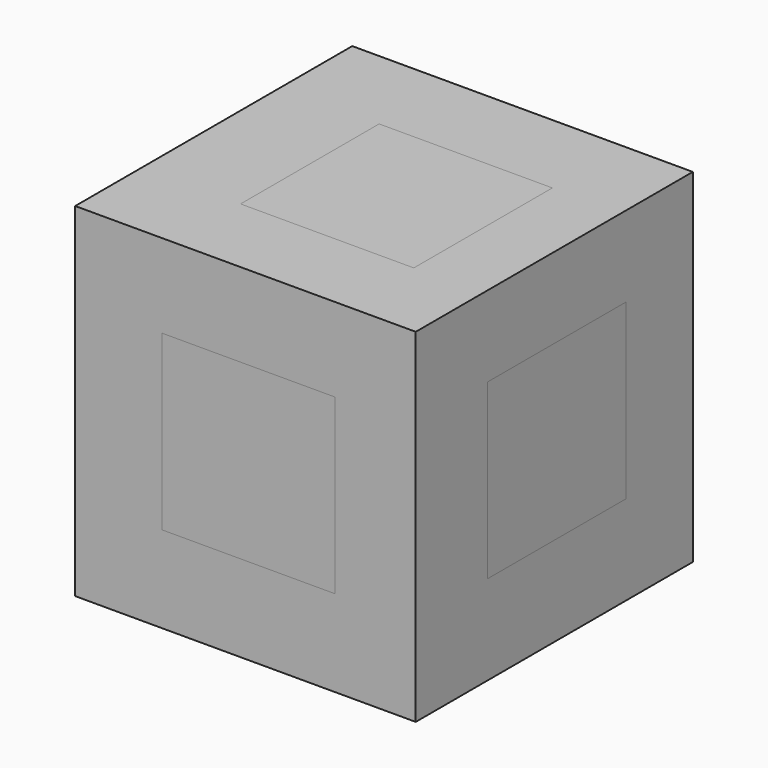
from build123d import *

# Parameters (mm, degrees)
F0_W      = 24.9766653881
F0_H      = 25.1883340639
F1_DEPTH  = 25.4
F3_DEPTH  = 3.175
F4_W      = 12.7057791688
F4_H      = 12.7057782374
F5_DEPTH  = 3.175
F6_W      = 12.7057782374
F6_H      = 12.7057782374
F7_DEPTH  = 3.175
F8_W      = 12.7057782374
F8_H      = 12.7057787031
F9_DEPTH  = 3.175
F10_W     = 12.7056017518
F10_H     = 12.7069917507
F11_DEPTH = 3.175
F13_DEPTH = 3.175
F14_W     = 12.7
F14_H     = 12.7
F15_DEPTH = 3.175
F16_W     = 12.7057791688
F16_H     = 12.7057782374
F17_DEPTH = 3.175
F18_W     = 12.7057782374
F18_H     = 12.7057782374
F19_DEPTH = 3.175
F20_DEPTH = 3.175
F21_W     = 12.7056017518
F21_H     = 12.7069917507
F22_DEPTH = 3.175
F24_DEPTH = 3.175


with BuildPart() as f1:
    # F0 (on Front) → F1 (new body)
    with BuildSketch(Plane.XZ):
        with Locations((-0.9989441171, -0.9692509511)):
            Rectangle(F0_W, F0_H)
    extrude(amount=F1_DEPTH)

    # F2 (on face) → F3 (cut)
    with BuildSketch(Plane.XZ.offset(25.4)):
        Polygon((5.5627231889, 5.4865820169), (-7.1372768111, 5.4865820169), (-7.1372768111, 0), (-7.1372768111, -7.2134179831), (5.5627231889, -7.2134179831), align=None)
    extrude(amount=-F3_DEPTH, mode=Mode.SUBTRACT)

    # F4 (on face) → F5 (cut)
    with BuildSketch(Plane.YZ.offset(11.489388577)):
        with Locations((-12.4690427911, -0.641859835)):
            Rectangle(F4_W, F4_H)
    extrude(amount=-F5_DEPTH, mode=Mode.SUBTRACT)

    # F6 (on face) → F7 (cut)
    with BuildSketch(Plane.XY.offset(11.6249160809)):
        with Locations((0.0989704859, -12.9297275562)):
            Rectangle(F6_W, F6_H)
    extrude(amount=-F7_DEPTH, mode=Mode.SUBTRACT)

    # F8 (on face) → F9 (cut)
    with BuildSketch(Plane(origin=(0, 0, 0), x_dir=(-1, 0, 0), z_dir=(0, 1, 0))):
        with Locations((0.7706631441, -0.6784405559)):
            Rectangle(F8_W, F8_H)
    extrude(amount=-F9_DEPTH, mode=Mode.SUBTRACT)

    # F10 (on face) → F11 (cut)
    with BuildSketch(Plane(origin=(-13.4872768111, 0, 0), x_dir=(0, -1, 0), z_dir=(-1, 0, 0))):
        with Locations((13.5012548417, -1.0135585908)):
            Rectangle(F10_W, F10_H)
    extrude(amount=-F11_DEPTH, mode=Mode.SUBTRACT)

    # F12 (on face) → F13 (cut)
    with BuildSketch(Plane(origin=(0, 0, -13.5634179831), x_dir=(1, 0, 0), z_dir=(0, 0, -1))):
        Polygon((5.8278664947, 18.2796437293), (-6.860839203, 18.2796437293), (-6.8629896268, 5.5769057944), (5.8278664947, 5.5769057944), align=None)
    extrude(amount=-F13_DEPTH, mode=Mode.SUBTRACT)


with BuildPart() as f15:
    # F14 (on face) → F15 (new body)
    with BuildSketch(Plane.XZ.offset(22.225)):
        with Locations((-0.7872768111, -0.8634179831)):
            Rectangle(F14_W, F14_H)
    extrude(amount=F15_DEPTH)


with BuildPart() as f17:
    # F16 (on face) → F17 (new body)
    with BuildSketch(Plane.YZ.offset(8.314388577)):
        with Locations((-12.4690427911, -0.641859835)):
            Rectangle(F16_W, F16_H)
    extrude(amount=F17_DEPTH)


with BuildPart() as f19:
    # F18 (on face) → F19 (new body)
    with BuildSketch(Plane.XY.offset(8.4499160809)):
        with Locations((0.0989704859, -12.9297275562)):
            Rectangle(F18_W, F18_H)
    extrude(amount=F19_DEPTH)


with BuildPart() as f20:
    # F20 (new): a face of the model
    f20_faces = [f1.part.faces().sort_by_distance(p)[0] for p in [
        (-0.7706631441, -3.175, -0.6784405559),
    ]]
    extrude(f20_faces, amount=F20_DEPTH)


with BuildPart() as f22:
    # F21 (on face) → F22 (new body)
    with BuildSketch(Plane(origin=(-10.3122768111, 0, 0), x_dir=(0, -1, 0), z_dir=(-1, 0, 0))):
        with Locations((13.5012548417, -1.0135585908)):
            Rectangle(F21_W, F21_H)
    extrude(amount=F22_DEPTH)


with BuildPart() as f24:
    # F23 (on face) → F24 (new body)
    with BuildSketch(Plane(origin=(0, 0, -10.3884179831), x_dir=(1, 0, 0), z_dir=(0, 0, -1))):
        Polygon((-6.860839203, 18.2796437293), (-6.8629896268, 5.5769057944), (5.8278664947, 5.5769057944), (5.8278664947, 18.2796437293), align=None)
    extrude(amount=F24_DEPTH)


solid = Compound([f1.part, f15.part, f17.part, f19.part, f20.part, f22.part, f24.part])
